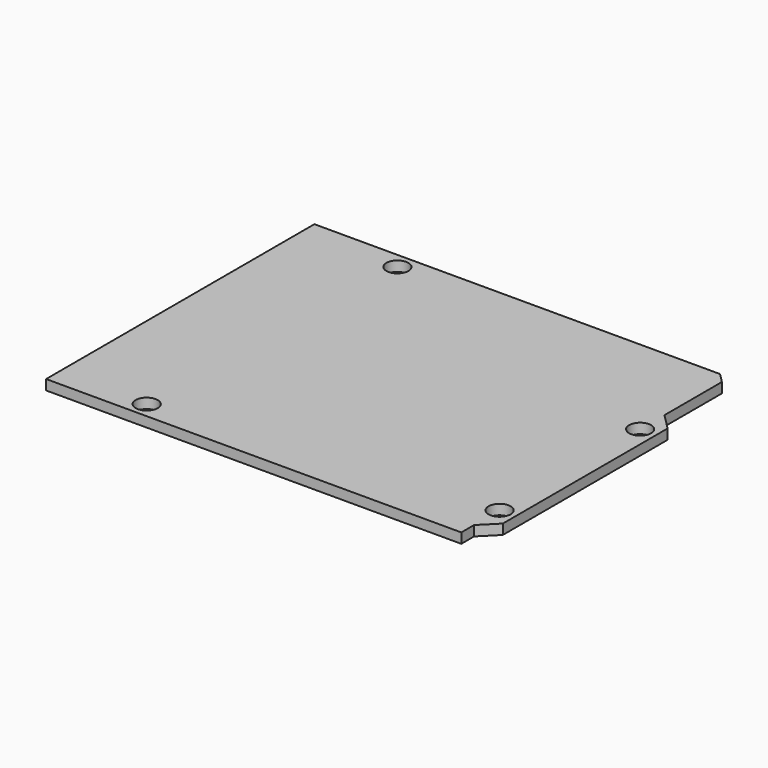
from build123d import *

# Parameters (mm, degrees)
F0_R     = 1.75
F0_W     = 9.525
F0_H     = 12.7
F0_W_2   = 11.43
F0_H_2   = 8.89
F1_DEPTH = 1.6


with BuildPart() as f1:
    # F0 (on Top) → F1 (new body)
    with BuildSketch(Plane.XY):
        Polygon((0, 3.175), (0, 0), (66.04, 0), (66.04, 2.54), (68.58, 5.08), (68.58, 37.846), (66.04, 40.386), (66.04, 51.816), (64.516, 53.34), (0, 53.34), (0, 45.085), (9.525, 45.085), (9.525, 32.385), (0, 32.385), (0, 12.065), (11.43, 12.065), (11.43, 3.175), align=None)
        with Locations((13.97, 2.54)):
            Circle(F0_R, mode=Mode.SUBTRACT)
        with Locations((66.04, 7.62)):
            Circle(F0_R, mode=Mode.SUBTRACT)
        with Locations((15.24, 50.8)):
            Circle(F0_R, mode=Mode.SUBTRACT)
        with Locations((66.04, 35.56)):
            Circle(F0_R, mode=Mode.SUBTRACT)
        with Locations((4.7625, 38.735)):
            Rectangle(F0_W, F0_H)
        with Locations((5.715, 7.62)):
            Rectangle(F0_W_2, F0_H_2)
    extrude(amount=-F1_DEPTH)


solid = f1.part
